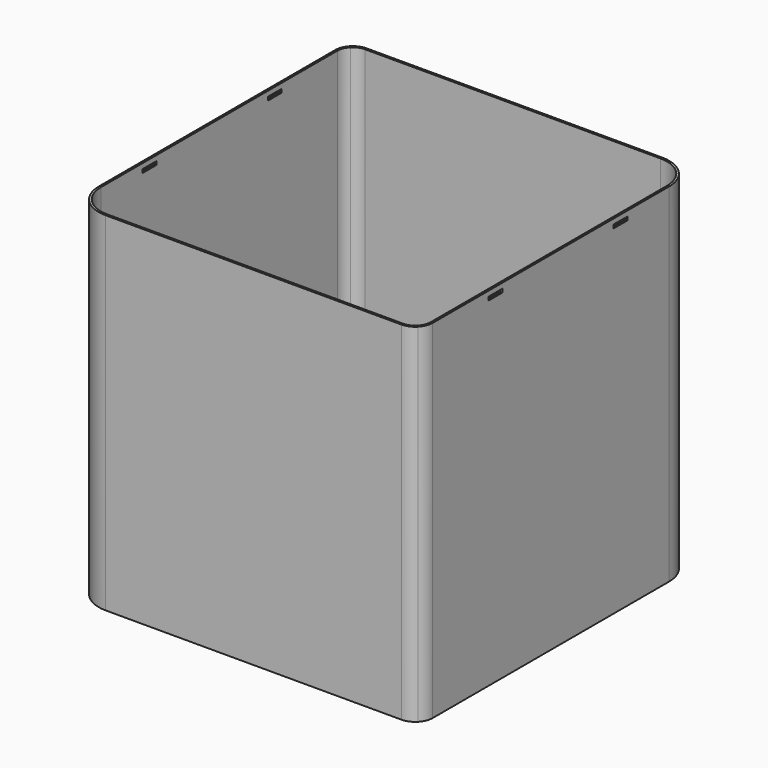
from build123d import *

# Parameters (mm, degrees)
F1_DEPTH = 200
F2_T     = -1.2
F3_W     = 10
F3_H     = 2
F4_DEPTH = 1.2


with BuildPart() as f1:
    # F0 (on Top) → F1 (new body)
    with BuildSketch(Plane.XY):
        with BuildLine():
            Line((80, 100), (-90, 100))
            ThreePointArc((-90, 100), (-93.826834, 99.238795), (-97.071068, 97.071068))
            Line((-97.071068, 97.071068), (0, 0))
            Line((0, 0), (94.142136, 94.142136))
            ThreePointArc((94.142136, 94.142136), (87.653669, 98.477591), (80, 100))
        make_face()
        with BuildLine():
            ThreePointArc((100, 80), (98.477591, 87.653669), (94.142136, 94.142136))
            Line((94.142136, 94.142136), (0, 0))
            Line((0, 0), (97.071068, -97.071068))
            ThreePointArc((97.071068, -97.071068), (99.238795, -93.826834), (100, -90))
            Line((100, -90), (100, 80))
        make_face()
        with BuildLine():
            Line((97.071068, -97.071068), (0, 0))
            Line((0, 0), (-94.142136, -94.142136))
            ThreePointArc((-94.142136, -94.142136), (-87.653669, -98.477591), (-80, -100))
            Line((-80, -100), (90, -100))
            ThreePointArc((90, -100), (93.826834, -99.238795), (97.071068, -97.071068))
        make_face()
        with BuildLine():
            Line((0, 0), (-97.071068, 97.071068))
            ThreePointArc((-97.071068, 97.071068), (-99.238795, 93.826834), (-100, 90))
            Line((-100, 90), (-100, -80))
            ThreePointArc((-100, -80), (-98.477591, -87.653669), (-94.142136, -94.142136))
            Line((-94.142136, -94.142136), (0, 0))
        make_face()
    extrude(amount=F1_DEPTH)

    # F2
    f2_openings = [f1.faces().sort_by_distance(p)[0] for p in [
        (0, 0, 200),
    ]]
    offset(amount=F2_T, openings=f2_openings)


with BuildPart() as f4:
    # F3 (on face) → F4 (new body, through all)
    with BuildSketch(Plane(origin=(-100, 0, 0), x_dir=(0, -1, 0), z_dir=(-1, 0, 0))):
        with Locations((-45, 196)):
            Rectangle(F3_W, F3_H)
        with Locations((45, 196)):
            Rectangle(F3_W, F3_H)
    extrude(amount=-F4_DEPTH)


with BuildPart() as f5_1:
    # F5: instance of F4
    add(f4.part.mirror(Plane.YZ))


with BuildPart() as f1_1:
    add(f1.part)

    # F6: cut F4, F5_1
    add(f4.part, mode=Mode.SUBTRACT)
    add(f5_1.part, mode=Mode.SUBTRACT)


solid = f1_1.part
